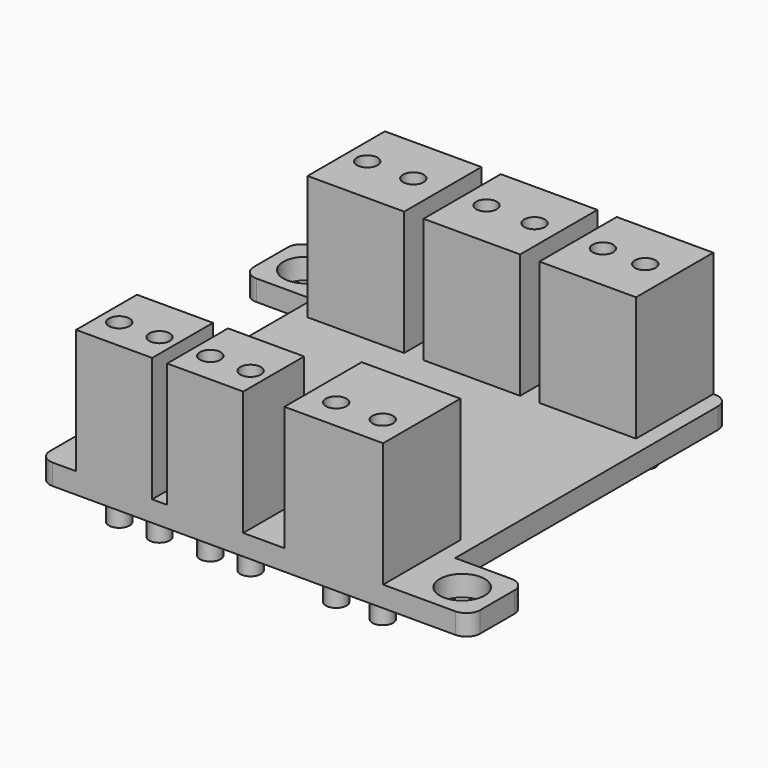
from build123d import *

# Parameters (mm, degrees)
F0_R     = 1.63195
F1_DEPTH = 1.5
F2_W     = 6.985
F2_H     = 6.985
F2_R     = 0.746035
F2_W_2   = 7.13823
F2_W_3   = 5.5
F2_H_2   = 5.5
F3_DEPTH = 9
F4_DEPTH = 3.7


with BuildPart() as f1:
    # F0 (on Top) → F1 (new body)
    with BuildSketch(Plane.XY):
        with BuildLine():
            Line((0.45623, 22.43354), (-28.65877, 22.43354))
            ThreePointArc((-28.65877, 22.43354), (-29.365876, 22.140646), (-29.65877, 21.43354))
            Line((-29.65877, 21.43354), (-29.65877, 18.35354))
            ThreePointArc((-29.65877, 18.35354), (-29.365876, 17.646433), (-28.65877, 17.35354))
            Line((-28.65877, 17.35354), (-24.57877, 17.35354))
            Line((-24.57877, 17.35354), (-24.57877, -6.41146))
            ThreePointArc((-24.57877, -6.41146), (-24.285876, -7.118567), (-23.57877, -7.41146))
            Line((-23.57877, -7.41146), (5.53623, -7.41146))
            ThreePointArc((5.53623, -7.41146), (6.243337, -7.118567), (6.53623, -6.41146))
            Line((6.53623, -6.41146), (6.53623, -3.33146))
            ThreePointArc((6.53623, -3.33146), (6.243337, -2.624354), (5.53623, -2.33146))
            Line((5.53623, -2.33146), (1.45623, -2.33146))
            Line((1.45623, -2.33146), (1.45623, 21.43354))
            ThreePointArc((1.45623, 21.43354), (1.163337, 22.140646), (0.45623, 22.43354))
        make_face()
        with Locations((3.99623, -4.87146)):
            Circle(F0_R, mode=Mode.SUBTRACT)
        with Locations((-27.11877, 19.89354)):
            Circle(F0_R, mode=Mode.SUBTRACT)
    extrude(amount=F1_DEPTH)

    # F2 (on face) → F3 (join)
    with BuildSketch(Plane.XY.offset(1.5)):
        with Locations((-19.94327, 18.94104)):
            Rectangle(F2_W, F2_H)
        with Locations((-21.915814, 18.94104)):
            Circle(F2_R, mode=Mode.SUBTRACT)
        with Locations((-18.583925, 18.94104)):
            Circle(F2_R, mode=Mode.SUBTRACT)
        with Locations((-11.56127, 18.94104)):
            Rectangle(F2_W, F2_H)
        with Locations((-13.293799, 18.94104)):
            Circle(F2_R, mode=Mode.SUBTRACT)
        with Locations((-9.818212, 18.94104)):
            Circle(F2_R, mode=Mode.SUBTRACT)
        with Locations((-3.17927, 18.94104)):
            Rectangle(F2_W, F2_H)
        with Locations((-4.874569, 18.94104)):
            Circle(F2_R, mode=Mode.SUBTRACT)
        with Locations((-1.815664, 18.94104)):
            Circle(F2_R, mode=Mode.SUBTRACT)
        with Locations((-3.255885, -3.91896)):
            Rectangle(F2_W_2, F2_H)
        with Locations((-4.876917, -5.169022)):
            Circle(F2_R, mode=Mode.SUBTRACT)
        with Locations((-1.506733, -5.169022)):
            Circle(F2_R, mode=Mode.SUBTRACT)
        with Locations((-12.551931, -4.66146)):
            Rectangle(F2_W_3, F2_H_2)
        with Locations((-13.975609, -5.169022)):
            Circle(F2_R, mode=Mode.SUBTRACT)
        with Locations((-11.063594, -5.169022)):
            Circle(F2_R, mode=Mode.SUBTRACT)
        with Locations((-19.13806, -4.66146)):
            Rectangle(F2_W_3, F2_H_2)
        with Locations((-20.561739, -5.169022)):
            Circle(F2_R, mode=Mode.SUBTRACT)
        with Locations((-17.649723, -5.169022)):
            Circle(F2_R, mode=Mode.SUBTRACT)
    extrude(amount=F3_DEPTH)

    # F2 (on face) → F4 (join)
    with BuildSketch(Plane.XY.offset(1.5)):
        with Locations((-20.561739, -5.169022)):
            Circle(F2_R)
        with Locations((-13.975609, -5.169022)):
            Circle(F2_R)
        with Locations((-17.649723, -5.169022)):
            Circle(F2_R)
        with Locations((-11.063594, -5.169022)):
            Circle(F2_R)
        with Locations((-4.876917, -5.169022)):
            Circle(F2_R)
        with Locations((-1.506733, -5.169022)):
            Circle(F2_R)
        with Locations((-1.815664, 18.94104)):
            Circle(F2_R)
        with Locations((-4.874569, 18.94104)):
            Circle(F2_R)
        with Locations((-9.818212, 18.94104)):
            Circle(F2_R)
        with Locations((-18.583925, 18.94104)):
            Circle(F2_R)
        with Locations((-21.915814, 18.94104)):
            Circle(F2_R)
    extrude(amount=-F4_DEPTH)


solid = f1.part
